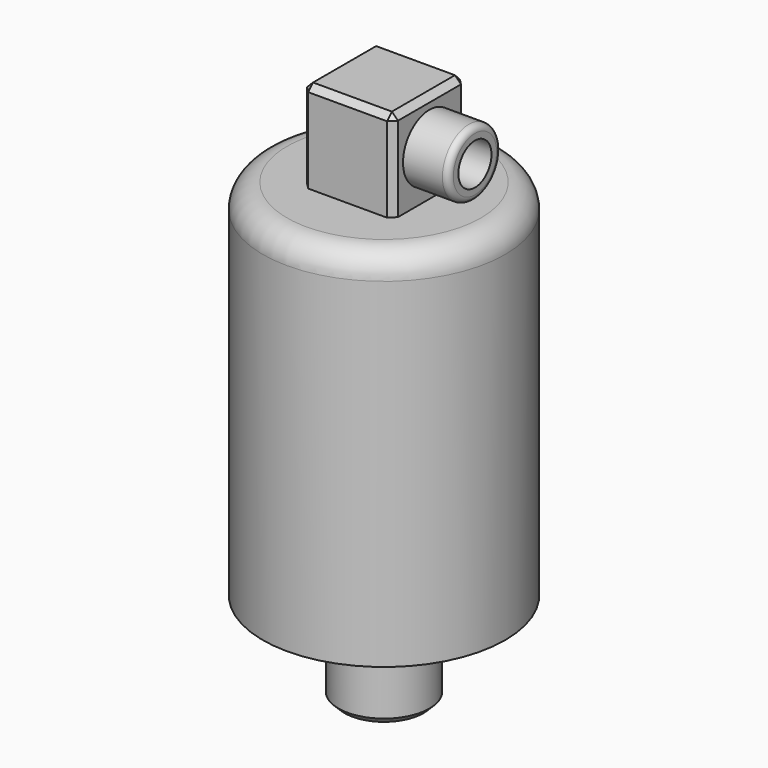
from build123d import *

# Parameters (mm, degrees)
F0_R      = 25.4
F1_DEPTH  = 76.2
F2_R      = 9.525
F3_DEPTH  = 19.05
F4_R      = 5.08
F5_SIZE   = 1.27
F6_W      = 19.05
F6_H      = 19.05
F7_DEPTH  = 19.05
F8_R      = 6.931889
F9_DEPTH  = 9.525
F10_R     = 4.338824
F11_DEPTH = 25.4
F12_SIZE  = 1.27
F13_R     = 1.27


with BuildPart() as f1:
    # F0 (on Top) → F1 (new body)
    with BuildSketch(Plane.XY):
        Circle(F0_R)
    extrude(amount=F1_DEPTH)

    # F2 (on face) → F3 (join)
    with BuildSketch(Plane(origin=(0, 0, 0), x_dir=(1, 0, 0), z_dir=(0, 0, -1))):
        Circle(F2_R)
    extrude(amount=F3_DEPTH)

    # F4
    f4_edges = [f1.edges().sort_by_distance(p)[0] for p in [
        (-25.4, 0, 76.2),
    ]]
    fillet(f4_edges, radius=F4_R)

    # F5
    f5_edges = [f1.edges().sort_by_distance(p)[0] for p in [
        (-9.525, 0, -19.05),
    ]]
    chamfer(f5_edges, length=F5_SIZE)

    # F6 (on face) → F7 (join)
    with BuildSketch(Plane.XY.offset(76.2)):
        Rectangle(F6_W, F6_H)
    extrude(amount=F7_DEPTH)

    # F8 (on face) → F9 (join)
    with BuildSketch(Plane.YZ.offset(9.525)):
        with Locations((0, 85.725)):
            Circle(F8_R)
    extrude(amount=F9_DEPTH)

    # F10 (on face) → F11 (cut)
    with BuildSketch(Plane.YZ.offset(19.05)):
        with Locations((0, 85.725)):
            Circle(F10_R)
    extrude(amount=-F11_DEPTH, mode=Mode.SUBTRACT)

    # F12
    f12_edges = [f1.edges().sort_by_distance(p)[0] for p in [
        (0, -9.525, 95.25),
        (-9.525, -9.525, 85.725),
        (9.525, -9.525, 85.725),
        (-9.525, 9.525, 85.725),
        (-9.525, 0, 95.25),
        (9.525, 9.525, 85.725),
        (0, 9.525, 95.25),
        (9.525, 0, 95.25),
    ]]
    chamfer(f12_edges, length=F12_SIZE)

    # F13
    f13_edges = [f1.edges().sort_by_distance(p)[0] for p in [
        (19.05, -6.931889, 85.725),
    ]]
    fillet(f13_edges, radius=F13_R)


solid = f1.part
